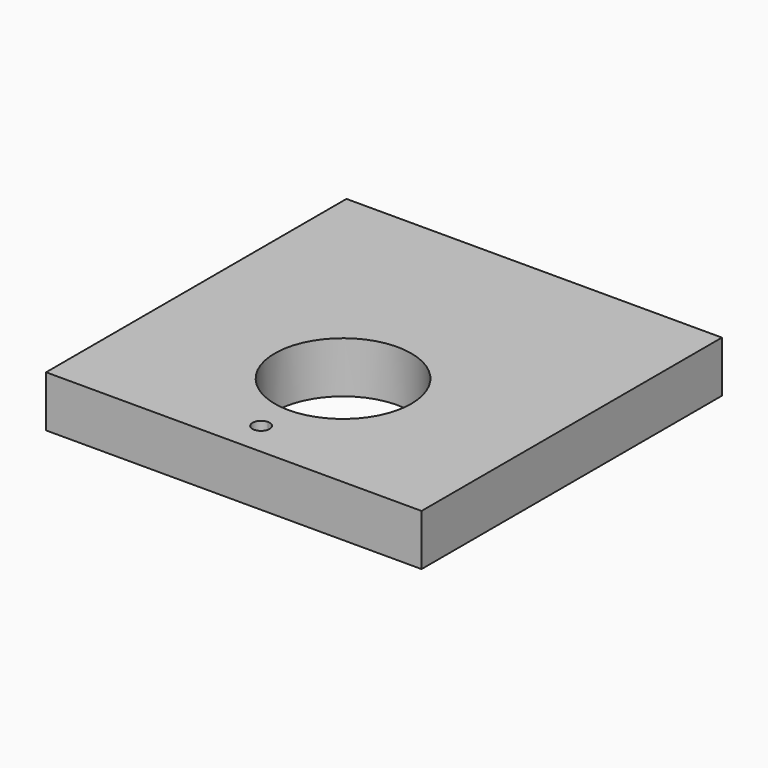
from build123d import *

# Parameters (mm, degrees)
F1_DEPTH = 19.05


with BuildPart() as f1:
    # F0 (on Top) → F1 (new body)
    with BuildSketch(Plane.XY):
        with BuildLine():
            ThreePointArc((25.4, -15.660232), (-17.960512, 2.300281), (0, -41.060232))
            ThreePointArc((0, -41.060232), (17.960512, -33.620744), (25.4, -15.660232))
        make_face()
        Polygon((69.85, 73.239768), (-69.85, 73.239768), (-69.85, -66.460232), (0, -66.460232), (69.85, -66.460232), align=None)
        with BuildLine():
            ThreePointArc((3.175, -53.760232), (2.245064, -56.005296), (0, -56.935232))
            ThreePointArc((0, -56.935232), (-3.175, -53.760232), (0, -50.585232))
            ThreePointArc((0, -50.585232), (2.245064, -51.515168), (3.175, -53.760232))
        make_face(mode=Mode.SUBTRACT)
        with BuildLine():
            ThreePointArc((25.4, -15.660232), (17.960512, -33.620744), (0, -41.060232))
            ThreePointArc((0, -41.060232), (-17.960512, 2.300281), (25.4, -15.660232))
        make_face(mode=Mode.SUBTRACT)
    extrude(amount=F1_DEPTH)


solid = f1.part
